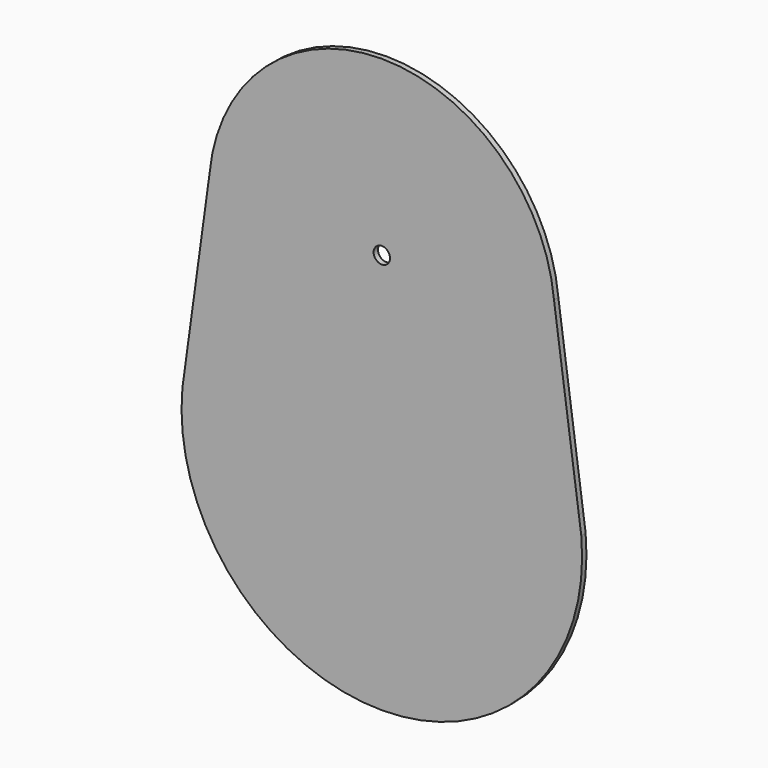
from build123d import *

# Parameters (mm, degrees)
F1_DEPTH = 3
F2_R     = 4.5
F3_DEPTH = 3.001


with BuildPart() as f1:
    # F0 (on Front) → F1 (new body)
    with BuildSketch(Plane.XZ):
        with BuildLine():
            Line((108.20451, -90.206463), (94.563775, 9.093536))
            ThreePointArc((94.563775, 9.093536), (0, 95), (-94.563775, 9.093536))
            Line((-94.563775, 9.093536), (-108.20451, -90.206463))
            Line((-108.20451, -90.206463), (-109.533774, -99.883063))
            ThreePointArc((-109.533774, -99.883063), (0, -220), (109.533774, -99.883063))
            Line((109.533774, -99.883063), (108.20451, -90.206463))
        make_face()
    extrude(amount=F1_DEPTH)

    # F2 (on face) → F3 (cut, through all)
    with BuildSketch(Plane.XZ.offset(3)):
        Circle(F2_R)
    extrude(amount=-F3_DEPTH, mode=Mode.SUBTRACT)


solid = f1.part
